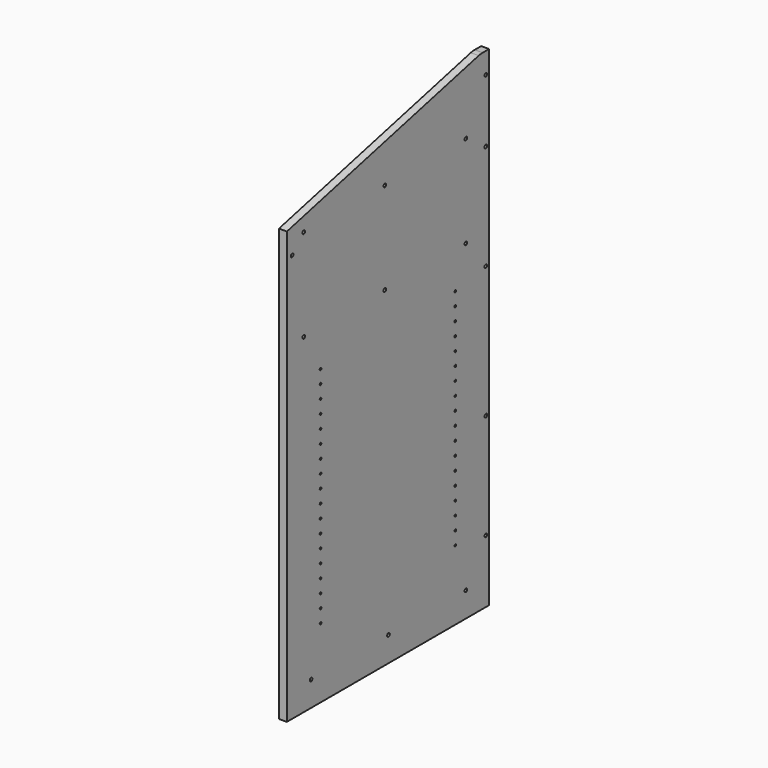
from build123d import *

# Parameters (mm, degrees)
F1_DEPTH = 19.05
F3_D     = 8.001
F3_DEPTH = 14.224
F3_TIP   = 2.4037429064
F5_D     = 5.0038
F5_DEPTH = 14.224
F5_TIP   = 1.5032931827


with BuildPart() as f1:
    # F0 (on Right) → F1 (new body)
    with BuildSketch(Plane.YZ):
        with BuildLine():
            Line((304.8, -590.55), (304.8, 590.55))
            Line((304.8, 590.55), (285.3894786878, 590.55))
            ThreePointArc((285.3894786878, 590.55), (279.4412012464, 590.2005500018), (273.5747594562, 589.157007696))
            Line((273.5747594562, 589.157007696), (-304.8, 450.85))
            Line((-304.8, 450.85), (-304.8, 428.625))
            Line((-304.8, 428.625), (-304.8, -590.55))
            Line((-304.8, -590.55), (304.8, -590.55))
        make_face()
    extrude(amount=F1_DEPTH)

    # F3
    with Locations(Plane.YZ.offset(19.05)):
        with Locations((-254, 428.625), (-288.925, 393.7), (-9.525, 428.625), (234.95, 428.625), (-254, 206.375), (-9.525, 206.375), (234.95, 206.375), (295.0947393439, 539.75), (295.0947393439, 387.35), (295.0947393439, 133.35), (295.275, -184.15), (295.275, -438.15), (234.95, -530.225), (-231.775, -530.225), (1.6002, -530.225)):
            Hole(F3_D / 2, depth=F3_DEPTH)
            with Locations((0, 0, -(F3_DEPTH + F3_TIP / 2))):  # 118° drill point
                Cone(0, F3_D / 2, F3_TIP, mode=Mode.SUBTRACT)

    # F5
    with Locations(Plane.YZ.offset(19.05)):
        with Locations((-203.2, 117.475), (-203.2, 85.725), (-203.2, 53.975), (-203.2, 22.225), (-203.2, -9.525), (-203.2, -41.275), (-203.2, -73.025), (-203.2, -104.775), (-203.2, -136.525), (-203.2, -168.275), (-203.2, -200.025), (-203.2, -231.775), (-203.2, -263.525), (-203.2, -295.275), (-203.2, -327.025), (-203.2, -358.775), (-203.2, -390.525), (-203.2, -422.275), (203.2, -422.275), (203.2, -390.525), (203.2, -358.775), (203.2, -327.025), (203.2, -295.275), (203.2, -263.525), (203.2, -231.775), (203.2, -200.025), (203.2, -168.275), (203.2, -136.525), (203.2, -104.775), (203.2, -73.025), (203.2, -41.275), (203.2, -9.525), (203.2, 22.225), (203.2, 53.975), (203.2, 85.725), (203.2, 117.475)):
            Hole(F5_D / 2, depth=F5_DEPTH)
            with Locations((0, 0, -(F5_DEPTH + F5_TIP / 2))):  # 118° drill point
                Cone(0, F5_D / 2, F5_TIP, mode=Mode.SUBTRACT)


solid = f1.part
